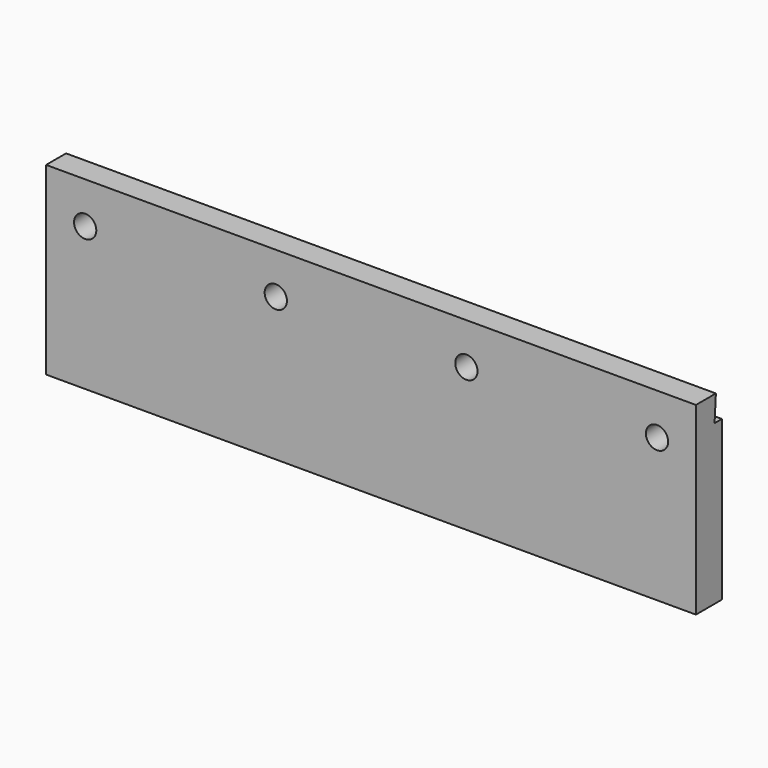
from build123d import *

# Parameters (mm, degrees)
F0_W     = 190.5
F0_H     = 54.1147
F1_DEPTH = 9.525
F3_D     = 6.5278
F5_DEPTH = 190.501
F7_D     = 6.7564
F7_DEPTH = 12.7
F7_TIP   = 2.0298273432


with BuildPart() as f1:
    # F0 (on Front) → F1 (new body)
    with BuildSketch(Plane.XZ):
        with Locations((95.25, 27.05735)):
            Rectangle(F0_W, F0_H)
    extrude(amount=F1_DEPTH)

    # F3 (through all)
    with Locations(Plane.XZ.offset(9.525)):
        with Locations((11.46175, 41.97985), (67.34175, 41.97985), (123.20905, 41.97985), (179.08905, 41.97985)):
            Hole(F3_D / 2)

    # F4 (on face) → F5 (cut, through all)
    with BuildSketch(Plane.YZ.offset(190.5)):
        Polygon((0, 54.1147), (-2.2098, 54.1147), (-2.6924, 46.6344), (0, 46.6344), align=None)
    extrude(amount=-F5_DEPTH, mode=Mode.SUBTRACT)

    # F7
    with Locations(Plane(origin=(0, 0, 0), x_dir=(1, 0, 0), z_dir=(0, 0, -1))):
        with Locations((25.13965, 4.7969794832), (94.92615, 4.7969794832), (164.77615, 4.7969794832)):
            Hole(F7_D / 2, depth=F7_DEPTH)
            with Locations((0, 0, -(F7_DEPTH + F7_TIP / 2))):  # 118° drill point
                Cone(0, F7_D / 2, F7_TIP, mode=Mode.SUBTRACT)


solid = f1.part
